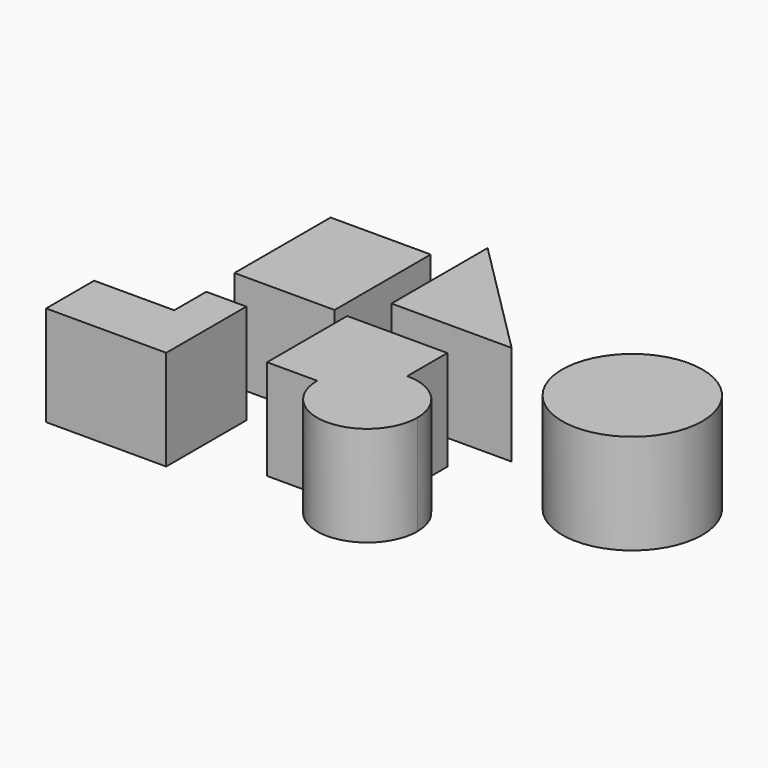
from build123d import *

# Parameters (mm, degrees)
F0_W     = 50
F0_H     = 60
F1_DEPTH = 50
F3_DEPTH = 50
F5_DEPTH = 50
F6_R     = 35
F7_DEPTH = 50


with BuildPart() as f1:
    # F0 (on Top) → F1 (new body)
    with BuildSketch(Plane.XY):
        with Locations((-18.606977, 13.768542)):
            Rectangle(F0_W, F0_H)
    extrude(amount=F1_DEPTH)


with BuildPart() as f3:
    # F2 (on Top) → F3 (new body)
    with BuildSketch(Plane.XY):
        Polygon((-22.27184, -35.476992), (-42.27184, -35.476992), (-42.27184, -55.476992), (-82.27184, -55.476992), (-82.27184, -85.476992), (-22.27184, -85.476992), align=None)
    extrude(amount=F3_DEPTH)


with BuildPart() as f5:
    # F4 (on Top) → F5 (new body)
    with BuildSketch(Plane.XY):
        Polygon((20.296728, 61.883115), (20.296728, 1.883115), (80.296728, 1.883115), align=None)
    extrude(amount=F5_DEPTH)


with BuildPart() as f7:
    # F6 (on Top) → F7 (new body)
    with BuildSketch(Plane.XY):
        with BuildLine():
            ThreePointArc((88.404931, -67.134853), (81.082601, -49.457183), (63.404931, -42.134853))
            Line((63.404931, -42.134853), (63.404931, -67.134853))
            Line((63.404931, -67.134853), (38.404931, -67.134853))
            ThreePointArc((38.404931, -67.134853), (63.404931, -92.134853), (88.404931, -67.134853))
        make_face()
        with BuildLine():
            Line((63.404931, -67.134853), (63.404931, -42.134853))
            ThreePointArc((63.404931, -42.134853), (45.727262, -49.457183), (38.404931, -67.134853))
            Line((38.404931, -67.134853), (63.404931, -67.134853))
        make_face()
        with BuildLine():
            Line((63.404931, -17.134853), (13.404931, -17.134853))
            Line((13.404931, -17.134853), (13.404931, -67.134853))
            Line((13.404931, -67.134853), (38.404931, -67.134853))
            ThreePointArc((38.404931, -67.134853), (45.727262, -49.457183), (63.404931, -42.134853))
            Line((63.404931, -42.134853), (63.404931, -17.134853))
        make_face()
        with Locations((142.05268, 0)):
            Circle(F6_R)
    extrude(amount=F7_DEPTH)


solid = Compound([f1.part, f3.part, f5.part, f7.part])
